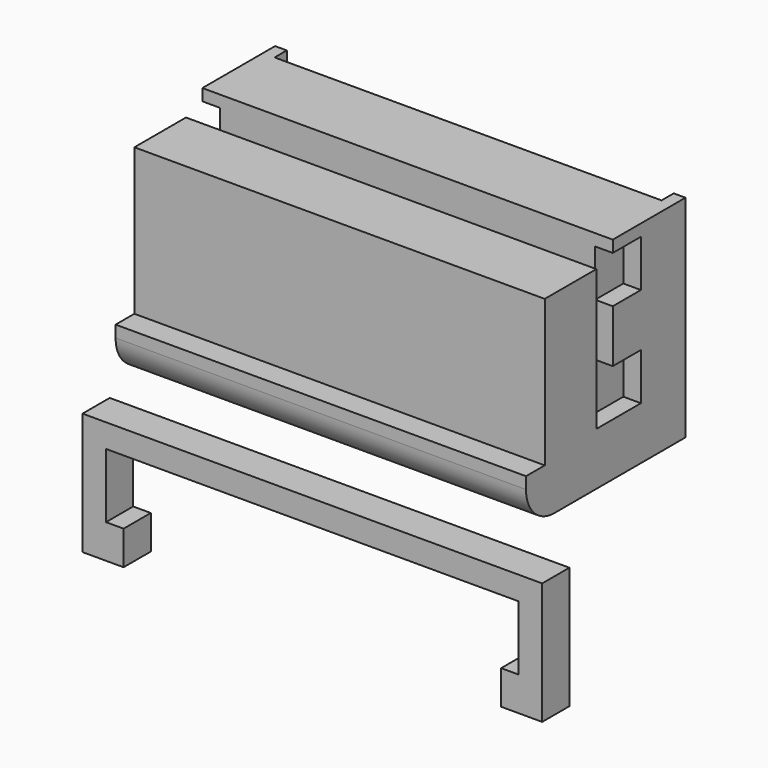
from build123d import *

# Parameters (mm, degrees)
SKETCH_W        = 35
SKETCH_H        = 17
PAD_DEPTH       = 18
SKETCH001_W     = 35
SKETCH001_H     = 1.75
POCKET_DEPTH    = 13.5
POCKET001_DEPTH = 15
SKETCH003_W     = 33
SKETCH003_H     = 1.3
POCKET002_DEPTH = 14
SKETCH004_R     = 1.375
PAD001_DEPTH    = 1.5
SKETCH005_W     = 15
SKETCH005_H     = 12
POCKET003_DEPTH = 4
SKETCH006_W     = 35
SKETCH006_H     = 2
POCKET004_DEPTH = 14
SKETCH007_W     = 18
SKETCH007_H     = 14
POCKET005_DEPTH = 0.5
FILLET_R        = 3
SKETCH008_W     = 35
SKETCH008_H     = 5.5
POCKET006_DEPTH = 1.5
SKETCH009_W     = 3
SKETCH009_H     = 4
POCKET007_DEPTH = 1.5
SKETCH010_W     = 3
SKETCH010_H     = 4
POCKET008_DEPTH = 1.5
PAD002_DEPTH    = 2.9


with BuildPart() as body:
    # Sketch → Pad (new body)
    with BuildSketch(Plane.XY):
        with Locations((17.5, 6.5)):
            Rectangle(SKETCH_W, SKETCH_H)
    extrude(amount=PAD_DEPTH)

    # Sketch001 (on DatumPlane) → Pocket (cut)
    with BuildSketch(Plane.XY.offset(18)):
        with Locations((17.5, 6.375)):
            Rectangle(SKETCH001_W, SKETCH001_H)
    extrude(amount=-POCKET_DEPTH, mode=Mode.SUBTRACT)

    # Sketch002 (on DatumPlane) → Pocket001 (cut)
    with BuildSketch(Plane(origin=(0, 0, 0), x_dir=(1, 0, 0), z_dir=(0, 0, -1))):
        Polygon((11.5, -13.7), (23.5, -13.7), (25, -11.7), (25, -7.7), (10, -7.7), (10, -11.7), align=None)
    extrude(amount=-POCKET001_DEPTH, mode=Mode.SUBTRACT)

    # Sketch003 (on DatumPlane) → Pocket002 (cut)
    with BuildSketch(Plane.XY.offset(18)):
        with Locations((17.5, 14.35)):
            Rectangle(SKETCH003_W, SKETCH003_H)
    extrude(amount=-POCKET002_DEPTH, mode=Mode.SUBTRACT)

    # Sketch004 (on DatumPlane) → Pad001 (join)
    with BuildSketch(Plane(origin=(0, 15, 0), x_dir=(-1, 0, 0), z_dir=(0, 1, 0))):
        with Locations((-29.5, 9)):
            Circle(SKETCH004_R)
        with Locations((-5.5, 9)):
            Circle(SKETCH004_R)
    extrude(amount=-PAD001_DEPTH)

    # Sketch005 (on DatumPlane) → Pocket003 (cut)
    with BuildSketch(Plane(origin=(0, 15, 0), x_dir=(-1, 0, 0), z_dir=(0, 1, 0))):
        with Locations((-17.5, 9)):
            Rectangle(SKETCH005_W, SKETCH005_H)
    extrude(amount=-POCKET003_DEPTH, mode=Mode.SUBTRACT)

    # Sketch006 (on DatumPlane) → Pocket004 (cut)
    with BuildSketch(Plane.XY.offset(18)):
        with Locations((17.5, -1)):
            Rectangle(SKETCH006_W, SKETCH006_H)
    extrude(amount=-POCKET004_DEPTH, mode=Mode.SUBTRACT)

    # Sketch007 (on DatumPlane) → Pocket005 (cut)
    with BuildSketch(Plane(origin=(0, 15, 0), x_dir=(-1, 0, 0), z_dir=(0, 1, 0))):
        with Locations((-17.5, 11)):
            Rectangle(SKETCH007_W, SKETCH007_H)
    extrude(amount=-POCKET005_DEPTH, mode=Mode.SUBTRACT)

    # Fillet
    fillet_edges = [body.edges().sort_by_distance(p)[0] for p in [
        (17.5, -2, 0),
    ]]
    fillet(fillet_edges, radius=FILLET_R)

    # Sketch008 (on DatumPlane) → Pocket006 (cut)
    with BuildSketch(Plane.XY.offset(18)):
        with Locations((17.5, 2.75)):
            Rectangle(SKETCH008_W, SKETCH008_H)
    extrude(amount=-POCKET006_DEPTH, mode=Mode.SUBTRACT)

    # Sketch009 (on DatumPlane) → Pocket007 (cut)
    with BuildSketch(Plane.YZ):
        with Locations((8.75, 15)):
            Rectangle(SKETCH009_W, SKETCH009_H)
        with Locations((8.75, 6.5)):
            Rectangle(SKETCH009_W, SKETCH009_H)
    extrude(amount=POCKET007_DEPTH, mode=Mode.SUBTRACT)

    # Sketch010 (on DatumPlane) → Pocket008 (cut)
    with BuildSketch(Plane.YZ.offset(35)):
        with Locations((8.75, 15)):
            Rectangle(SKETCH010_W, SKETCH010_H)
        with Locations((8.75, 6.5)):
            Rectangle(SKETCH010_W, SKETCH010_H)
    extrude(amount=-POCKET008_DEPTH, mode=Mode.SUBTRACT)


with BuildPart() as bodylatch:
    # Sketch011 → Pad002 (new body)
    with BuildSketch(Plane.XZ):
        Polygon((-0.1, -5), (35.1, -5), (35.1, -10.5), (33.6, -10.5), (33.6, -13.4), (37.1, -13.4), (37.1, -3), (-2.1, -3), (-2.1, -13.4), (1.4, -13.4), (1.4, -10.5), (-0.1, -10.5), align=None)
    extrude(amount=PAD002_DEPTH)


solid = Compound([body.part, bodylatch.part])
